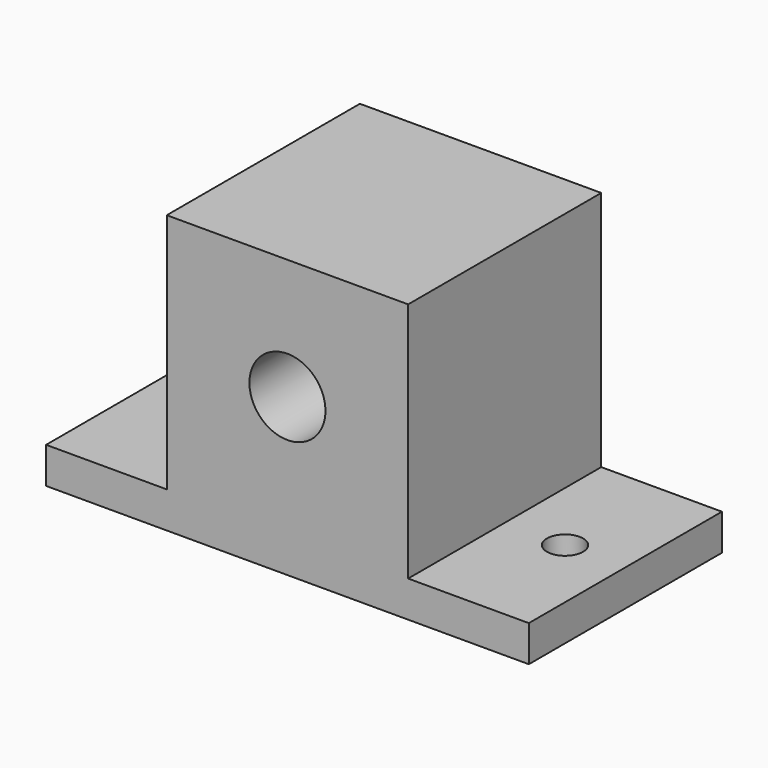
from build123d import *

# Parameters (mm, degrees)
F0_W     = 25.4
F0_H     = 25.4
F1_DEPTH = 25.4
F2_R     = 4.0005
F3_DEPTH = 25.401
F4_R     = 4.0005
F5_DEPTH = 7.62
F6_R     = 1.905
F7_DEPTH = 25.4


with BuildPart() as f1:
    # F0 (on Front) → F1 (new body)
    with BuildSketch(Plane.XZ):
        with Locations((0, 16.51)):
            Rectangle(F0_W, F0_H)
        Polygon((-25.4, 3.81), (-25.4, 0), (25.4, 0), (25.4, 3.81), (12.7, 3.81), (-12.7, 3.81), align=None)
    extrude(amount=F1_DEPTH)

    # F2 (on face) → F3 (cut, through all)
    with BuildSketch(Plane(origin=(0, 0, 0), x_dir=(-1, 0, 0), z_dir=(0, 1, 0))):
        with Locations((0, 16.51)):
            Circle(F2_R)
    extrude(amount=-F3_DEPTH, mode=Mode.SUBTRACT)

    # F4 (on face) → F5 (cut)
    with BuildSketch(Plane(origin=(0, 0, 0), x_dir=(-1, 0, 0), z_dir=(0, 1, 0))):
        Polygon((7.332348, 16.51), (3.666174, 22.86), (-3.666174, 22.86), (-7.332348, 16.51), (-3.666174, 10.16), (3.666174, 10.16), align=None)
        with Locations((0, 16.51)):
            Circle(F4_R, mode=Mode.SUBTRACT)
    extrude(amount=-F5_DEPTH, mode=Mode.SUBTRACT)

    # F6 (on face) → F7 (cut)
    with BuildSketch(Plane.XY.offset(3.81)):
        with Locations((-19.05, -12.7)):
            Circle(F6_R)
        with Locations((19.05, -12.7)):
            Circle(F6_R)
    extrude(amount=-F7_DEPTH, mode=Mode.SUBTRACT)


solid = f1.part
